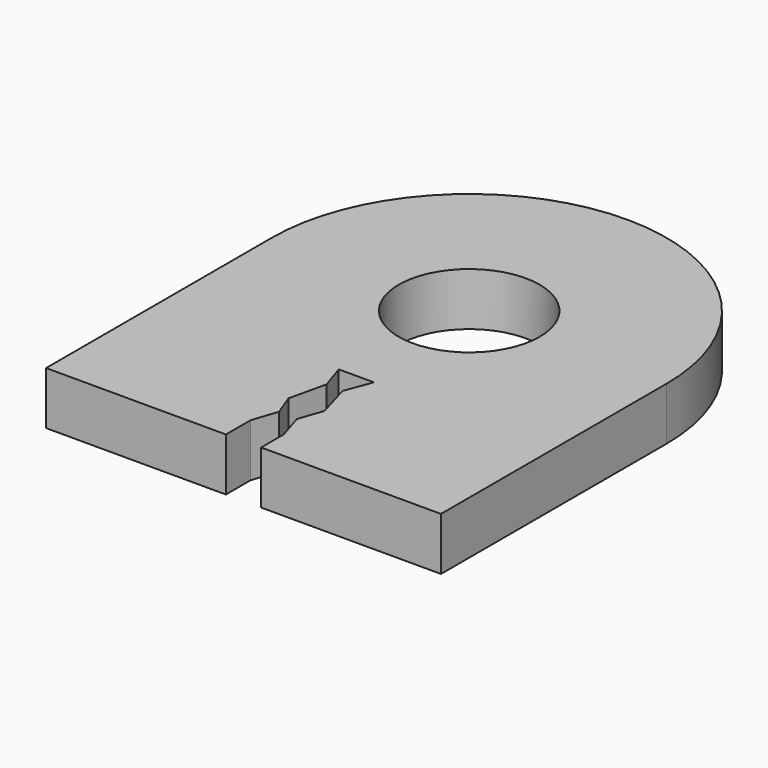
from build123d import *

# Parameters (mm, degrees)
F0_R     = 6.35
F1_DEPTH = 4.7625


with BuildPart() as f1:
    # F0 (on Top) → F1 (new body)
    with BuildSketch(Plane.XY):
        with BuildLine():
            Line((17.78, -25.4), (17.78, 0))
            ThreePointArc((17.78, 0), (0, 17.78), (-17.78, 0))
            Line((-17.78, 0), (-17.78, -25.4))
            Line((-17.78, -25.4), (-1.5875, -25.4))
            Line((-1.5875, -25.4), (-1.5875, -22.616914))
            Line((-1.5875, -22.616914), (-0.829144, -20.359706))
            Line((-0.829144, -20.359706), (-1.5875, -18.353298))
            Line((-1.5875, -18.353298), (-0.829144, -15.009287))
            Line((-0.829144, -15.009287), (-1.5875, -12.7))
            Line((-1.5875, -12.7), (1.5875, -12.7))
            Line((1.5875, -12.7), (0.675662, -15.092887))
            Line((0.675662, -15.092887), (1.5875, -18.269699))
            Line((1.5875, -18.269699), (0.842863, -20.443305))
            Line((0.842863, -20.443305), (1.5875, -22.867715))
            Line((1.5875, -22.867715), (1.5875, -25.4))
            Line((1.5875, -25.4), (17.78, -25.4))
        make_face()
        Circle(F0_R, mode=Mode.SUBTRACT)
    extrude(amount=F1_DEPTH)


solid = f1.part
